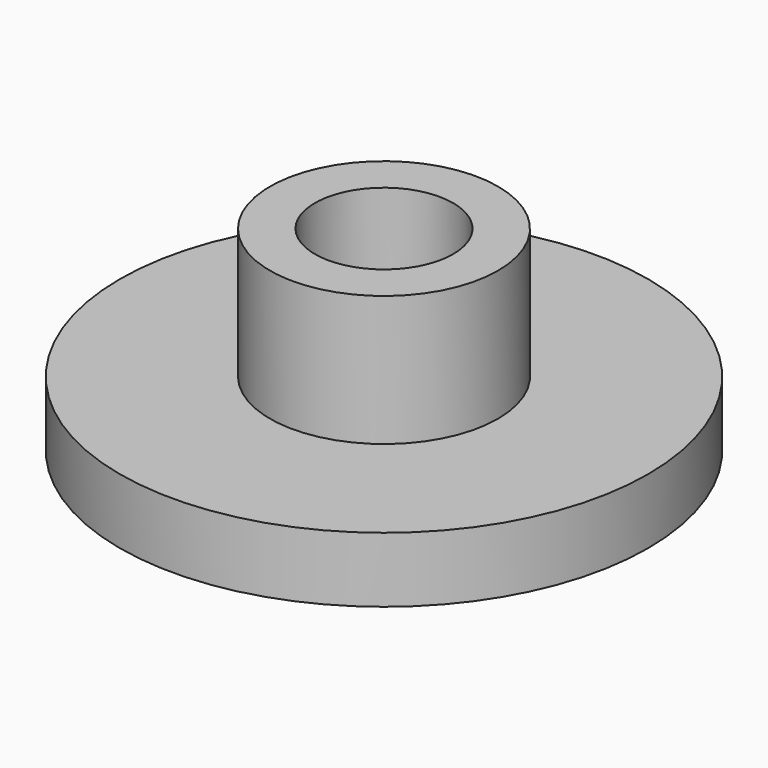
from build123d import *

# Parameters (mm, degrees)
SKETCH_R     = 40.527115
PAD_DEPTH    = 10
SKETCH001_R  = 17.496578
PAD001_DEPTH = 20
SKETCH002_R  = 10.611915
POCKET_DEPTH = 30


with BuildPart() as part:
    # Sketch → Pad (new body)
    with BuildSketch(Plane.XY):
        Circle(SKETCH_R)
    extrude(amount=PAD_DEPTH)

    # Sketch001 → Pad001 (new body)
    with BuildSketch(Plane.XY.offset(10)):
        Circle(SKETCH001_R)
    extrude(amount=PAD001_DEPTH)

    # Sketch002 → Pocket (cut)
    with BuildSketch(Plane.XY.offset(30)):
        Circle(SKETCH002_R)
    extrude(amount=-POCKET_DEPTH, mode=Mode.SUBTRACT)


solid = part.part
